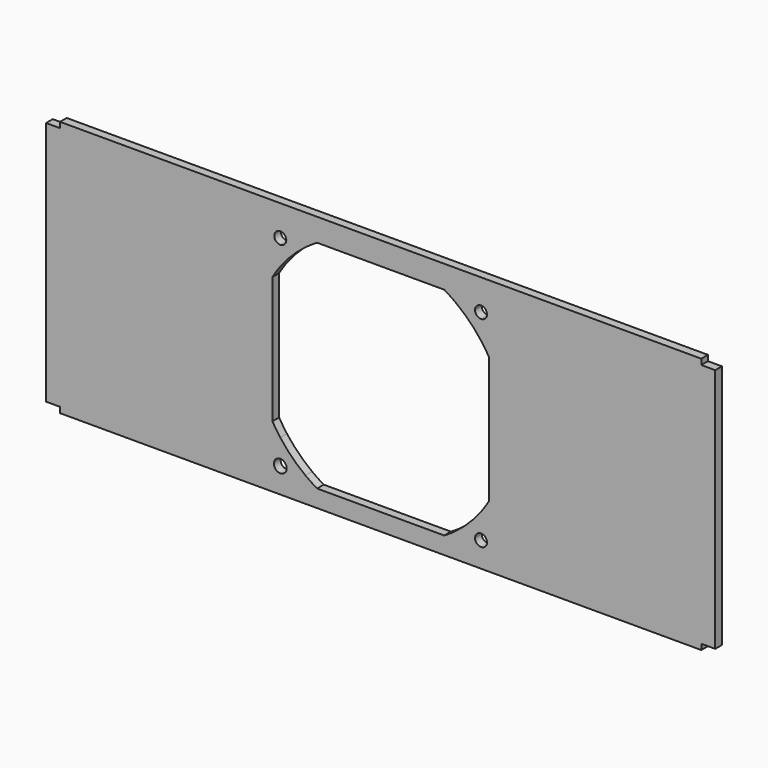
from build123d import *

# Parameters (mm, degrees)
F0_W     = 240
F0_H     = 94
F1_DEPTH = 3
F2_W     = 5
F2_H     = 2
F2_W_2   = 230
F3_DEPTH = 25
F5_DEPTH = 25


with BuildPart() as f1:
    # F0 (on Front) → F1 (new body)
    with BuildSketch(Plane.XZ):
        Rectangle(F0_W, F0_H)
    extrude(amount=F1_DEPTH)

    # F2 (on face) → F3 (cut)
    with BuildSketch(Plane.XZ.offset(3)):
        with Locations((-117.5, 46)):
            Rectangle(F2_W, F2_H)
        Polygon((-120, -43), (-120, -47), (-115, -47), (-115, -45), (-115, -43), align=None)
        with Locations((0, -46)):
            Rectangle(F2_W_2, F2_H)
        Polygon((115, -45), (115, -47), (120, -47), (120, -43), (115, -43), align=None)
        with Locations((117.5, 46)):
            Rectangle(F2_W, F2_H)
    extrude(amount=-F3_DEPTH, mode=Mode.SUBTRACT)

    # F4 (on face) → F5 (cut)
    with BuildSketch(Plane.XZ.offset(3)):
        with BuildLine():
            Line((-36, 36), (-36, 33.85))
            ThreePointArc((-36, 33.85), (-34.47972, 34.47972), (-33.85, 36))
            Line((-33.85, 36), (-36, 36))
        make_face()
        with BuildLine():
            ThreePointArc((-33.85, 36), (-37.52028, 37.52028), (-36, 33.85))
            Line((-36, 33.85), (-36, 36))
            Line((-36, 36), (-33.85, 36))
        make_face()
        with BuildLine():
            Line((36, 36), (36, 33.85))
            ThreePointArc((36, 33.85), (37.52028, 34.47972), (38.15, 36))
            ThreePointArc((38.15, 36), (36, 38.15), (33.85, 36))
            Line((33.85, 36), (36, 36))
        make_face()
        with BuildLine():
            ThreePointArc((33.85, 36), (34.47972, 34.47972), (36, 33.85))
            Line((36, 33.85), (36, 36))
            Line((36, 36), (33.85, 36))
        make_face()
        with BuildLine():
            Line((36, -33.85), (36, -36))
            Line((36, -36), (33.85, -36))
            ThreePointArc((33.85, -36), (36, -38.15), (38.15, -36))
            ThreePointArc((38.15, -36), (37.52028, -34.47972), (36, -33.85))
        make_face()
        with BuildLine():
            Line((33.85, -36), (36, -36))
            Line((36, -36), (36, -33.85))
            ThreePointArc((36, -33.85), (34.47972, -34.47972), (33.85, -36))
        make_face()
        with BuildLine():
            ThreePointArc((-36, -33.7), (-37.626346, -37.626346), (-33.7, -36))
            Line((-33.7, -36), (-36, -36))
            Line((-36, -36), (-36, -33.7))
        make_face()
        with BuildLine():
            Line((-36, -36), (-33.7, -36))
            ThreePointArc((-33.7, -36), (-34.373654, -34.373654), (-36, -33.7))
            Line((-36, -33.7), (-36, -36))
        make_face()
        with BuildLine():
            ThreePointArc((22.793859, -38.8), (24.936261, -37.459083), (27, -36))
            ThreePointArc((27, -36), (31.819805, -31.819805), (36, -27))
            ThreePointArc((36, -27), (37.459083, -24.936261), (38.8, -22.793859))
            Line((38.8, -22.793859), (38.8, 22.793859))
            ThreePointArc((38.8, 22.793859), (37.459083, 24.936261), (36, 27))
            ThreePointArc((36, 27), (31.819805, 31.819805), (27, 36))
            ThreePointArc((27, 36), (24.936261, 37.459083), (22.793859, 38.8))
            Line((22.793859, 38.8), (-22.793859, 38.8))
            ThreePointArc((-22.793859, 38.8), (-24.936261, 37.459083), (-27, 36))
            ThreePointArc((-27, 36), (-31.819805, 31.819805), (-36, 27))
            ThreePointArc((-36, 27), (-37.459083, 24.936261), (-38.8, 22.793859))
            Line((-38.8, 22.793859), (-38.8, -22.793859))
            ThreePointArc((-38.8, -22.793859), (-37.459083, -24.936261), (-36, -27))
            ThreePointArc((-36, -27), (-31.819805, -31.819805), (-27, -36))
            ThreePointArc((-27, -36), (-24.936261, -37.459083), (-22.793859, -38.8))
            Line((-22.793859, -38.8), (22.793859, -38.8))
        make_face()
    extrude(amount=-F5_DEPTH, mode=Mode.SUBTRACT)


solid = f1.part
